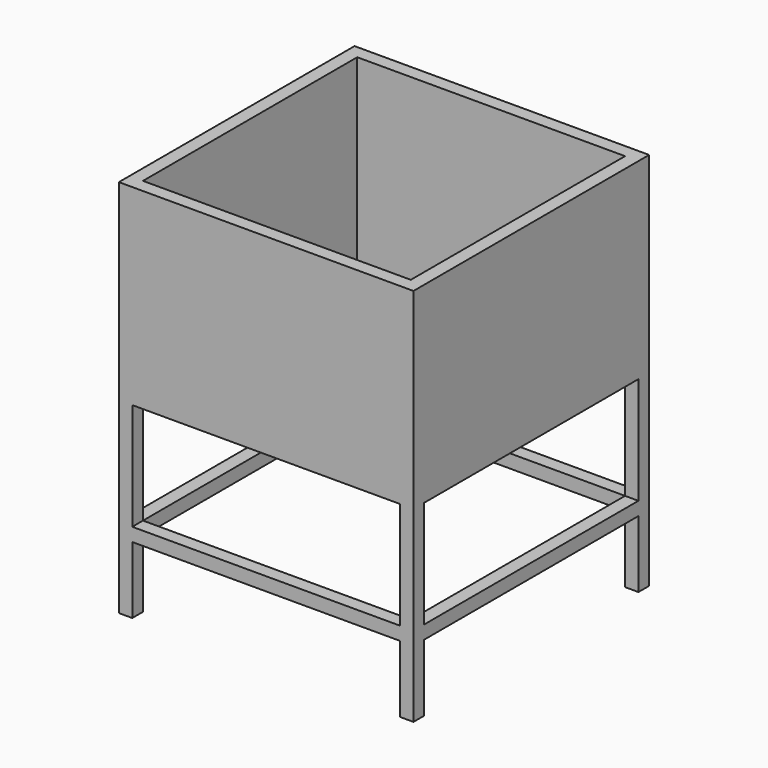
from build123d import *

# Parameters (mm, degrees)
F0_W     = 600
F0_H     = 240
F1_DEPTH = 660
F3_DEPTH = 450.001
F4_W     = 600
F4_H     = 150
F4_H_2   = 240
F5_DEPTH = 660.001
F6_W     = 660
F6_H     = 660
F6_W_2   = 600
F6_H_2   = 600
F7_DEPTH = 400
F8_W     = 630
F8_H     = 660
F9_DEPTH = 2


with BuildPart() as f1:
    # F0 (on Right) → F1 (new body)
    with BuildSketch(Plane.YZ):
        Polygon((0, 450), (0, 0), (30, 0), (30, 150), (630, 150), (630, 0), (660, 0), (660, 450), align=None)
        with Locations((330, 300)):
            Rectangle(F0_W, F0_H, mode=Mode.SUBTRACT)
    extrude(amount=F1_DEPTH)

    # F2 (on face) → F3 (cut, through all)
    with BuildSketch(Plane.XY.offset(450)):
        Polygon((30, 30), (630, 30), (630, 630), (385, 630), (30, 630), align=None)
    extrude(amount=-F3_DEPTH, mode=Mode.SUBTRACT)

    # F4 (on face) → F5 (cut, through all)
    with BuildSketch(Plane(origin=(0, 660, 0), x_dir=(-1, 0, 0), z_dir=(0, 1, 0))):
        with Locations((-330, 75)):
            Rectangle(F4_W, F4_H)
        with Locations((-330, 300)):
            Rectangle(F4_W, F4_H_2)
    extrude(amount=-F5_DEPTH, mode=Mode.SUBTRACT)

    # F6 (on face) → F7 (join)
    with BuildSketch(Plane.XY.offset(450)):
        with Locations((330, 330)):
            Rectangle(F6_W, F6_H)
        with Locations((330, 330)):
            Rectangle(F6_W_2, F6_H_2, mode=Mode.SUBTRACT)
    extrude(amount=F7_DEPTH)

    # F8 (on face) → F9 (join)
    with BuildSketch(Plane(origin=(0, 0, 420), x_dir=(1, 0, 0), z_dir=(0, 0, -1))):
        with Locations((315, -330)):
            Rectangle(F8_W, F8_H)
    extrude(amount=-F9_DEPTH)


solid = f1.part
